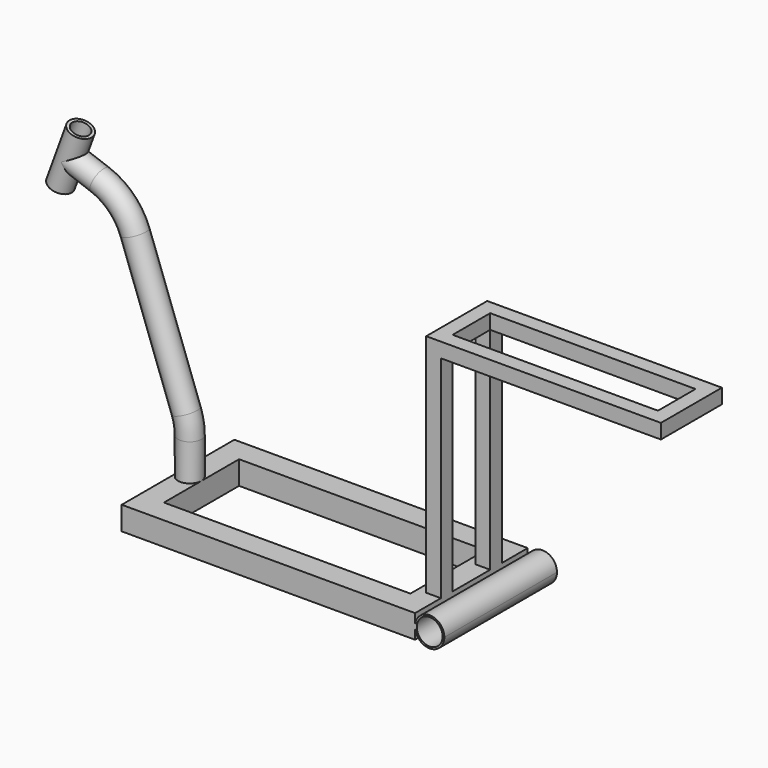
from build123d import *

# Parameters (mm, degrees)
F0_W      = 500
F0_H      = 240
F0_W_2    = 420
F0_H_2    = 160
F1_DEPTH  = 40
F2_W      = 25
F2_H      = 360
F3_DEPTH  = 25
F4_W      = 400
F4_H      = 130
F4_W_2    = 350
F4_H_2    = 80
F5_DEPTH  = 25
F6_R      = 25
F6_R_2    = 22
F7_DEPTH  = 240
F11_R     = 20
F13_W     = 20
F13_H     = 100
F15_R     = 15
F16_DEPTH = 493.7865093372


with BuildPart() as f1:
    # F0 (on Top) → F1 (new body)
    with BuildSketch(Plane.XY):
        with Locations((250, 120)):
            Rectangle(F0_W, F0_H)
        with Locations((250, 120)):
            Rectangle(F0_W_2, F0_H_2, mode=Mode.SUBTRACT)
    extrude(amount=F1_DEPTH)

    # F2 (on face) → F3 (join)
    with BuildSketch(Plane.YZ.offset(500)):
        with Locations((67.5, 220)):
            Rectangle(F2_W, F2_H)
        with Locations((172.5, 220)):
            Rectangle(F2_W, F2_H)
    extrude(amount=-F3_DEPTH)

    # F4 (on face) → F5 (join)
    with BuildSketch(Plane.XY.offset(400)):
        with Locations((675, 120)):
            Rectangle(F4_W, F4_H)
        with Locations((675, 120)):
            Rectangle(F4_W_2, F4_H_2, mode=Mode.SUBTRACT)
    extrude(amount=F5_DEPTH)

    # F6 (on Front) → F7 (join)
    with BuildSketch(Plane.XZ):
        with Locations((524.9, 20)):
            Circle(F6_R)
        with Locations((524.9, 20)):
            Circle(F6_R_2, mode=Mode.SUBTRACT)
    extrude(amount=-F7_DEPTH)

    # F12: sweep along a path in F9
    with BuildLine(Plane.XZ.offset(-120)) as f12_path:
        Line((20, 20), (20, 102.3673019292))
        ThreePointArc((20, 102.3673019292), (18.4807753012, 119.7321196958), (13.9692620786, 136.5693162617))
        Line((13.9692620786, 136.5693162617), (-73.2424090723, 376.1814134616))
        ThreePointArc((-73.2424090723, 376.1814134616), (-96.5009930322, 412.6900772477), (-133.0096568183, 435.9486612076))
        Line((-133.0096568183, 435.9486612076), (-183.1603323585, 454.2020143326))
    # F11 (on line) → F12 (sweep)
    with BuildSketch(Plane.XY.offset(20)):
        with Locations((20, 120)):
            Circle(F11_R)
    sweep(path=f12_path.line)

    # F13 (on face) → F14 (revolve)
    with BuildSketch(Plane(origin=(-307.7123571346, 0, 111.9981387129), x_dir=(0, -1, 0), z_dir=(-0.9396926208, 0, 0.3420201433))):
        with Locations((-130, 364.1657580896)):
            Rectangle(F13_W, F13_H)
    revolve(axis=Axis((-183.1603323585, 120, 454.2020143326), (-0.3420201433, 0, -0.9396926208)))

    # F15 (on face) → F16 (cut, through all)
    with BuildSketch(Plane(origin=(141.6530319424, 0, 389.188506659), x_dir=(0.9396926208, 0, -0.3420201433), z_dir=(0.3420201433, 0, 0.9396926208))):
        with Locations((-327.4606507788, 120)):
            Circle(F15_R)
    extrude(amount=-F16_DEPTH, mode=Mode.SUBTRACT)


solid = f1.part
